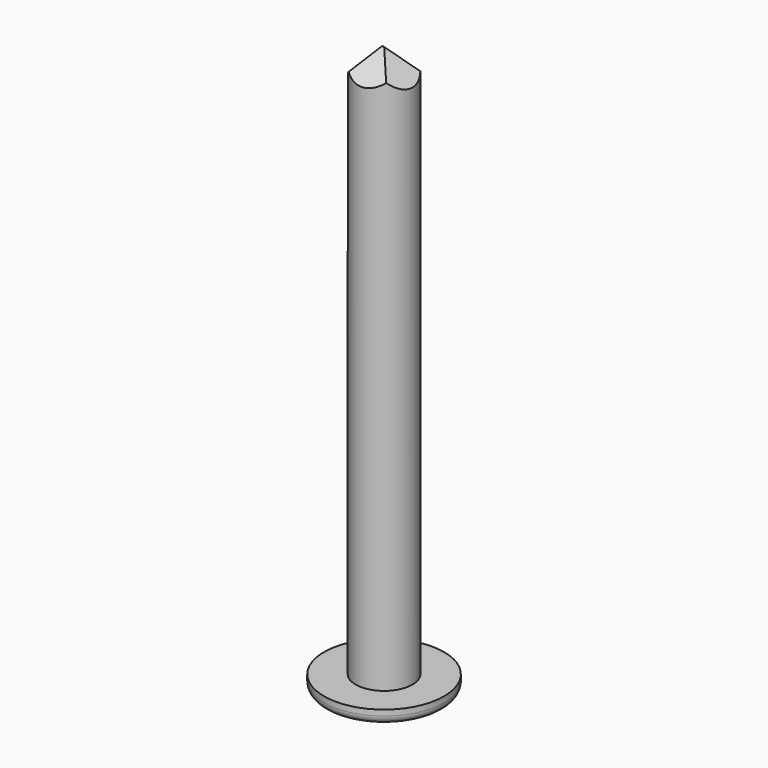
from build123d import *

# Parameters (mm, degrees)
F0_R          = 0.5
F1_DEPTH      = 10
F0_R_2        = 1.057388
F2_DEPTH      = 0.25
F3_R          = 0.15
F5_DEPTH      = 25
F5_DEPTH_BACK = 25
F7_DEPTH      = 25
F7_DEPTH_BACK = 25


with BuildPart() as f1:
    # F0 (on Top) → F1 (new body)
    with BuildSketch(Plane.XY):
        Circle(F0_R)
    extrude(amount=F1_DEPTH)

    # F0 (on Top) → F2 (join)
    with BuildSketch(Plane.XY):
        Circle(F0_R_2)
        Circle(F0_R, mode=Mode.SUBTRACT)
    extrude(amount=F2_DEPTH)

    # F3
    f3_edges = [f1.edges().sort_by_distance(p)[0] for p in [
        (-1.057388, 0, 0),
    ]]
    fillet(f3_edges, radius=F3_R)

    # F4 (on Right) → F5 (cut, two sides)
    with BuildSketch(Plane.YZ) as f5_sk:
        Polygon((-0.958076, 9.147321), (-0.022735, 9.998414), (0.690646, 9.140222), (0.690646, 10.352595), (-0.869291, 10.392135), align=None)
    extrude(amount=F5_DEPTH, mode=Mode.SUBTRACT)
    extrude(f5_sk.sketch, amount=-F5_DEPTH_BACK, mode=Mode.SUBTRACT)

    # F6 (on Front) → F7 (cut, two sides)
    with BuildSketch(Plane.XZ) as f7_sk:
        Polygon((-1.2872, 8.500885), (0, 10.019018), (1.330554, 8.673213), (1.125401, 10.741157), (-1.2872, 10.741157), align=None)
    extrude(amount=F7_DEPTH, mode=Mode.SUBTRACT)
    extrude(f7_sk.sketch, amount=-F7_DEPTH_BACK, mode=Mode.SUBTRACT)


solid = f1.part
